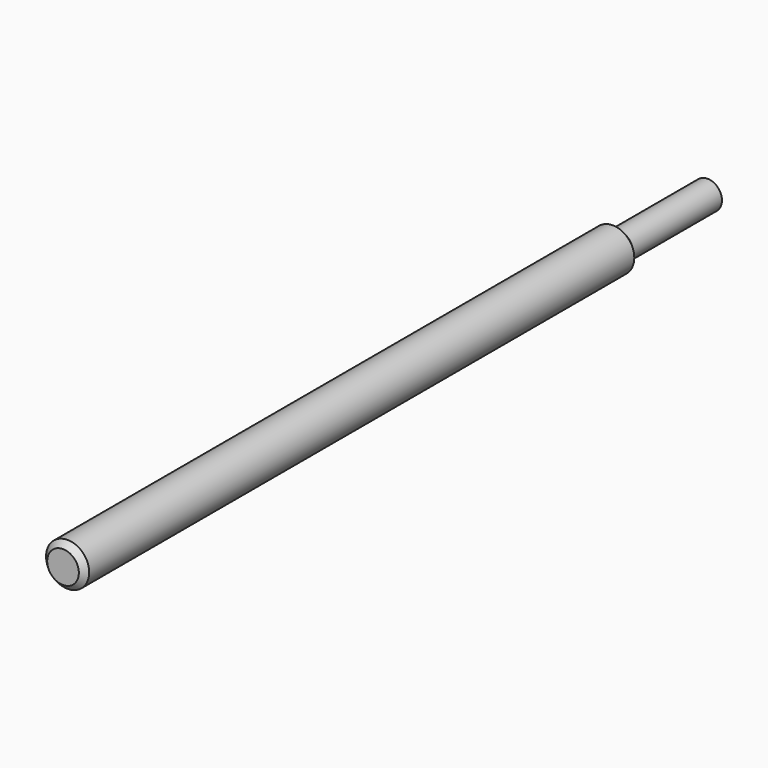
from build123d import *

# Parameters (mm, degrees)
F0_R     = 4.7625
F1_DEPTH = 152.908
F2_SIZE2 = 1.27
F2_SIZE  = 1.27
F3_R     = 3.175
F4_DEPTH = 24.892


with BuildPart() as f1:
    # F0 (on Front) → F1 (new body)
    with BuildSketch(Plane.XZ):
        Circle(F0_R)
    extrude(amount=F1_DEPTH)

    # F2
    f2_edges = [f1.edges().sort_by_distance(p)[0] for p in [
        (-4.7625, -152.908, 0),
        (-4.7625, 0, 0),
    ]]
    chamfer(f2_edges, length=F2_SIZE, length2=F2_SIZE2)

    # F3 (on face) → F4 (join)
    with BuildSketch(Plane(origin=(0, 0, 0), x_dir=(-1, 0, 0), z_dir=(0, 1, 0))):
        Circle(F3_R)
    extrude(amount=F4_DEPTH)


solid = f1.part
